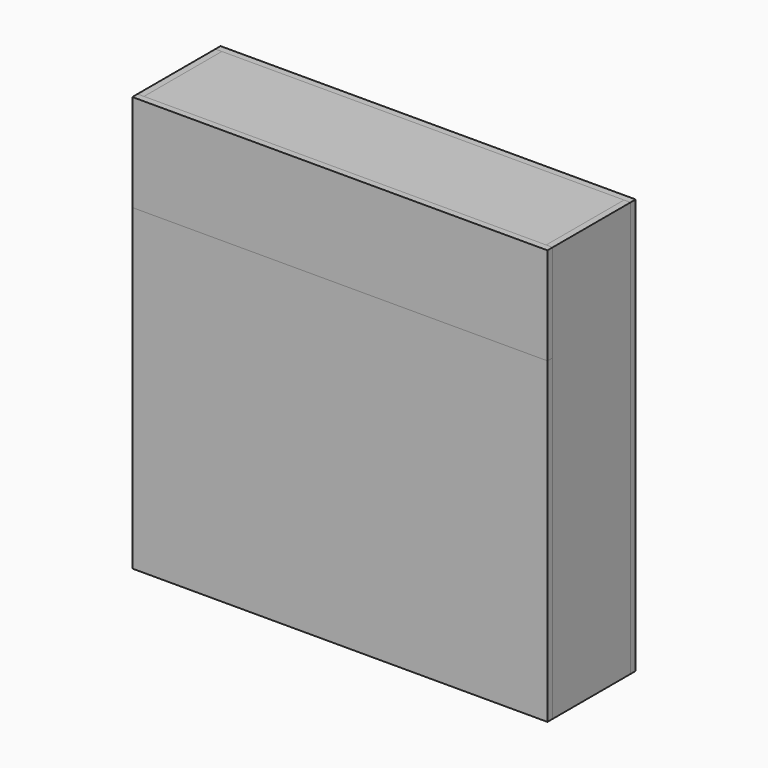
from build123d import *

# Parameters (mm, degrees)
F0_W      = 609.6
F0_H      = 609.6
F1_DEPTH  = 9.525
F2_W      = 9.525
F2_H      = 609.6
F3_DEPTH  = 142.875
F5_W      = 590.55
F5_H      = 9.525
F6_DEPTH  = 142.875
F10_DEPTH = 9.525
F11_W     = 609.6
F11_H     = 466.725
F12_DEPTH = 9.525


with BuildPart() as f1:
    # F0 (on Front) → F1 (new body)
    with BuildSketch(Plane.XZ):
        Rectangle(F0_W, F0_H)
    extrude(amount=F1_DEPTH)


with BuildPart() as f3:
    # F2 (on face) → F3 (new body)
    with BuildSketch(Plane.XZ.offset(9.525)):
        with Locations((-300.0375, 0)):
            Rectangle(F2_W, F2_H)
    extrude(amount=F3_DEPTH)


with BuildPart() as f4_1:
    # F4: instance of F3
    add(f3.part.mirror(Plane.YZ))


with BuildPart() as f6:
    # F5 (on face) → F6 (new body)
    with BuildSketch(Plane.XZ.offset(9.525)):
        with Locations((0, 300.0375)):
            Rectangle(F5_W, F5_H)
    extrude(amount=F6_DEPTH)


with BuildPart() as f7_1:
    # F7: copy of F6
    add(f6.part.moved(Location((0, 0, -142.875))))


with BuildPart() as f8_1:
    # F8: copy of F6
    add(f6.part.moved(Location((0, 0, -600.075))))


with BuildPart() as f10:
    # F9 (on face) → F10 (new body)
    with BuildSketch(Plane.XZ.offset(152.4)):
        Polygon((304.8, 304.8), (-295.275, 304.8), (-304.8, 304.8), (-304.8, 161.925), (304.8, 161.925), align=None)
    extrude(amount=F10_DEPTH)


with BuildPart() as f12:
    # F11 (on face) → F12 (new body)
    with BuildSketch(Plane.XZ.offset(152.4)):
        with Locations((0, -71.4375)):
            Rectangle(F11_W, F11_H)
    extrude(amount=F12_DEPTH)


solid = Compound([f1.part, f3.part, f4_1.part, f6.part, f7_1.part, f8_1.part, f10.part, f12.part])
